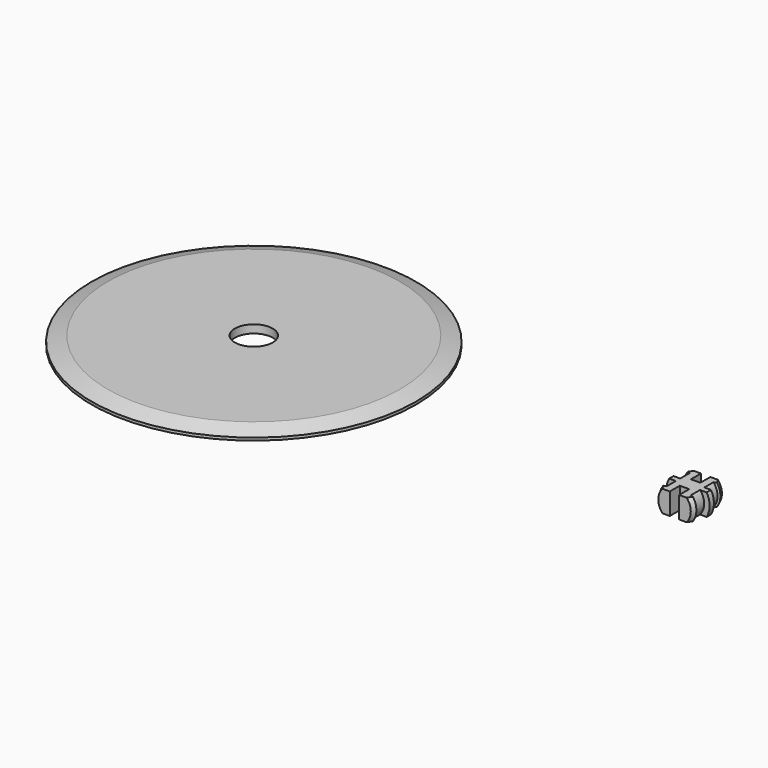
from build123d import *

# Parameters (mm, degrees)
F1_R      = 30
F2_DEPTH  = 1.5
F3_R      = 3.5
F4_DEPTH  = 25
F5_SIZE2  = 1
F5_SIZE   = 3
F8_W      = 9
F8_H      = 8
F8_W_2    = 8
F8_H_2    = 4
F9_DEPTH  = 25
F10_W     = 1.7410665751
F10_H     = 2.3193174853
F11_DEPTH = 25


with BuildPart() as f2:
    # F1 (on Top) → F2 (new body)
    with BuildSketch(Plane.XY):
        with Locations((-61.7477148771, -31.0816839337)):
            Circle(F1_R)
    extrude(amount=F2_DEPTH)

    # F3 (on face) → F4 (cut)
    with BuildSketch(Plane.XY.offset(1.5)):
        with Locations((-61.7477148771, -31.0816839337)):
            Circle(F3_R)
    extrude(amount=-F4_DEPTH, mode=Mode.SUBTRACT)

    # F5
    f5_edges = [f2.edges().sort_by_distance(p)[0] for p in [
        (-91.747715, -31.081684, 1.5),
    ]]
    f5_side = f2.faces().sort_by_distance((-90.899187, -31.081684, 1.5))[0]
    chamfer(f5_edges, length=F5_SIZE, length2=F5_SIZE2, reference=f5_side)


with BuildPart() as f7:
    # F6 (on Top) → F7 (revolve)
    with BuildSketch(Plane.XY):
        Polygon((14.081964633, -25.1921089872), (13.7207033594, -25.9921089872), (14.081964633, -26.1921089872), (14.081964633, -28.2921089872), (13.081964633, -28.2921089872), (13.081964633, -29.2921089872), (14.081964633, -29.2921089872), (14.081964633, -31.3921089872), (13.681964633, -31.5921089872), (14.081964633, -32.3921089872), (17.081964633, -32.3921089872), (17.081964633, -25.1921089872), align=None)
    revolve(axis=Axis((17.081964633, -28.7921089872, 0), (0, 1, 0)))

    # F8 (on face) → F9 (cut)
    with BuildSketch(Plane.XZ.offset(32.3921089872)):
        with Locations((17.081964633, 0)):
            Rectangle(F8_W, F8_H)
        with Locations((17.081964633, 0)):
            Rectangle(F8_W_2, F8_H_2, mode=Mode.SUBTRACT)
    extrude(amount=-F9_DEPTH, mode=Mode.SUBTRACT)

    # F10 (on face) → F11 (cut)
    with BuildSketch(Plane.XY.offset(2)):
        with Locations((17.0735940337, -26.3517677299)):
            Rectangle(F10_W, F10_H)
        with Locations((17.0735940337, -31.2324502445)):
            Rectangle(F10_W, F10_H)
    extrude(amount=-F11_DEPTH, mode=Mode.SUBTRACT)


solid = Compound([f2.part, f7.part])
